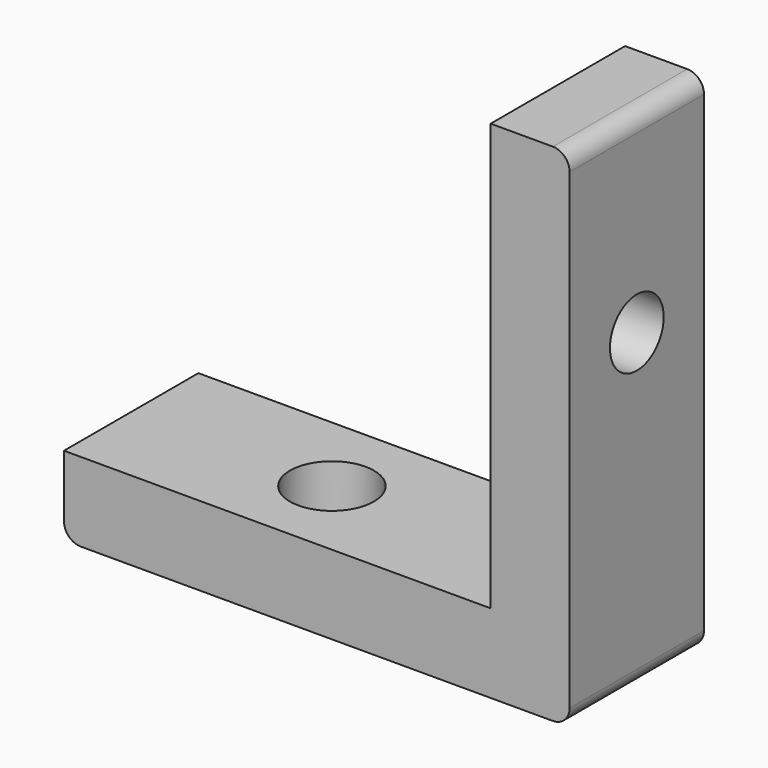
from build123d import *

# Parameters (mm, degrees)
F0_W     = 25.4
F0_H     = 10
F0_R     = 2.5
F1_DEPTH = 4.7
F2_W     = 10
F2_H     = 30.1
F2_R     = 2
F3_DEPTH = 4.7
F4_R     = 1


with BuildPart() as f1:
    # F0 (on Top) → F1 (new body)
    with BuildSketch(Plane.XY):
        Rectangle(F0_W, F0_H)
        with Locations((-0.75, 0)):
            Circle(F0_R, mode=Mode.SUBTRACT)
    extrude(amount=F1_DEPTH)

    # F2 (on face) → F3 (join)
    with BuildSketch(Plane.YZ.offset(12.7)):
        with Locations((0, 15.05)):
            Rectangle(F2_W, F2_H)
        with Locations((0, 18.65)):
            Circle(F2_R, mode=Mode.SUBTRACT)
    extrude(amount=F3_DEPTH)

    # F4
    f4_edges = [f1.edges().sort_by_distance(p)[0] for p in [
        (17.4, 0, 30.1),
        (17.4, 0, 0),
        (-12.7, 0, 0),
    ]]
    fillet(f4_edges, radius=F4_R)


solid = f1.part
